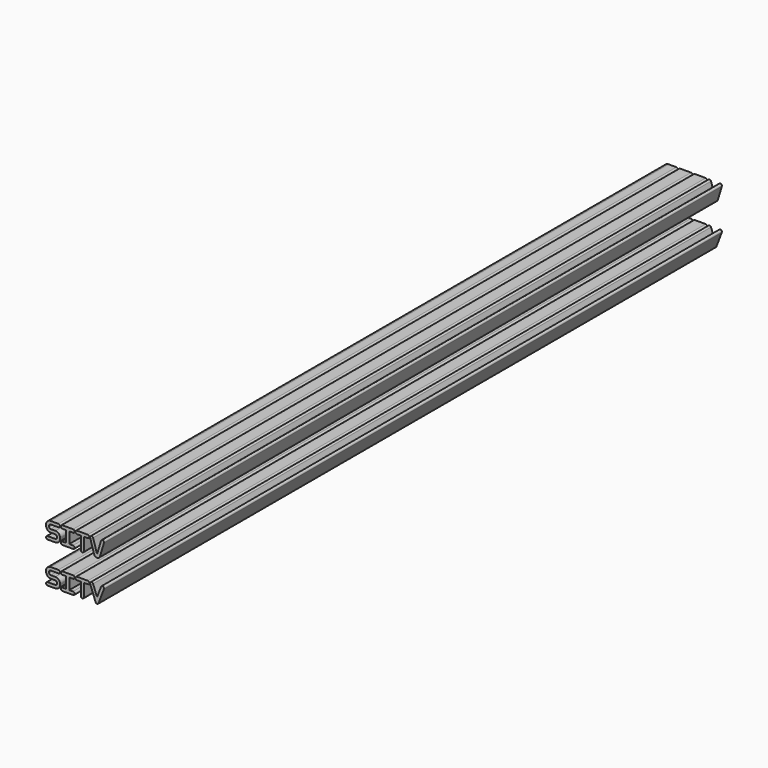
from build123d import *

# Parameters (mm, degrees)
F1_DEPTH = 2540


with BuildPart() as f1:
    # F0 (on Front) → F1 (new body)
    with BuildSketch(Plane.XZ):
        with BuildLine():
            ThreePointArc((-40.64, 10.16), (-45.72, 5.08), (-40.64, 0))
            Line((-40.64, 0), (-15.24, 0))
            ThreePointArc((-15.24, 0), (-4.463693, 4.463693), (0, 15.24))
            Line((0, 15.24), (0, 18.415))
            ThreePointArc((0, 18.415), (-4.463693, 29.191307), (-15.24, 33.655))
            Line((-15.24, 33.655), (-30.48, 33.655))
            ThreePointArc((-30.48, 33.655), (-34.072102, 35.142898), (-35.56, 38.735))
            Line((-35.56, 38.735), (-35.56, 41.91))
            ThreePointArc((-35.56, 41.91), (-34.072102, 45.502102), (-30.48, 46.99))
            Line((-30.48, 46.99), (-5.08, 46.99))
            ThreePointArc((-5.08, 46.99), (0, 52.07), (-5.08, 57.15))
            Line((-5.08, 57.15), (-30.48, 57.15))
            ThreePointArc((-30.48, 57.15), (-41.256307, 52.686307), (-45.72, 41.91))
            Line((-45.72, 41.91), (-45.72, 38.735))
            ThreePointArc((-45.72, 38.735), (-41.256307, 27.958693), (-30.48, 23.495))
            Line((-30.48, 23.495), (-15.24, 23.495))
            ThreePointArc((-15.24, 23.495), (-11.647898, 22.007102), (-10.16, 18.415))
            Line((-10.16, 18.415), (-10.16, 15.24))
            ThreePointArc((-10.16, 15.24), (-11.647898, 11.647898), (-15.24, 10.16))
            Line((-15.24, 10.16), (-40.64, 10.16))
        make_face()
        with BuildLine():
            ThreePointArc((7.62, 10.16), (2.54, 5.08), (7.62, 0))
            Line((7.62, 0), (43.18, 0))
            ThreePointArc((43.18, 0), (48.26, 5.08), (43.18, 10.16))
            Line((43.18, 10.16), (30.48, 10.16))
            Line((30.48, 10.16), (30.48, 46.99))
            Line((30.48, 46.99), (43.18, 46.99))
            ThreePointArc((43.18, 46.99), (48.26, 52.07), (43.18, 57.15))
            Line((43.18, 57.15), (7.62, 57.15))
            ThreePointArc((7.62, 57.15), (2.54, 52.07), (7.62, 46.99))
            Line((7.62, 46.99), (20.32, 46.99))
            Line((20.32, 46.99), (20.32, 10.16))
            Line((20.32, 10.16), (7.62, 10.16))
        make_face()
        with BuildLine():
            ThreePointArc((55.88, 57.15), (50.8, 52.07), (55.88, 46.99))
            Line((55.88, 46.99), (68.58, 46.99))
            Line((68.58, 46.99), (68.58, 5.08))
            ThreePointArc((68.58, 5.08), (73.66, 0), (78.74, 5.08))
            Line((78.74, 5.08), (78.74, 46.99))
            Line((78.74, 46.99), (91.44, 46.99))
            ThreePointArc((91.44, 46.99), (96.52, 52.07), (91.44, 57.15))
            Line((91.44, 57.15), (55.88, 57.15))
        make_face()
        with BuildLine():
            ThreePointArc((109.008735, 53.519766), (102.690234, 56.938735), (99.271265, 50.620234))
            Line((99.271265, 50.620234), (109.008735, 53.519766))
        make_face()
        with BuildLine():
            Line((109.008735, 53.519766), (99.271265, 50.620234))
            Line((99.271265, 50.620234), (112.182531, 7.260467))
            ThreePointArc((112.182531, 7.260467), (121.92, 0), (131.65747, 7.260467))
            Line((131.65747, 7.260467), (144.568735, 50.620234))
            ThreePointArc((144.568735, 50.620234), (143.772543, 55.106576), (139.7, 57.15))
            ThreePointArc((139.7, 57.15), (136.663424, 56.142543), (134.831265, 53.519766))
            Line((134.831265, 53.519766), (122.150792, 10.935065))
            Line((122.150792, 10.935065), (121.92, 10.16))
            Line((121.92, 10.16), (121.689208, 10.935065))
            Line((121.689208, 10.935065), (109.008735, 53.519766))
        make_face()
        with BuildLine():
            ThreePointArc((122.150792, 10.935065), (121.92, 10.8839), (121.689208, 10.935065))
            Line((121.689208, 10.935065), (121.92, 10.16))
            Line((121.92, 10.16), (122.150792, 10.935065))
        make_face()
        with BuildLine():
            ThreePointArc((108.891254, -79.482228), (102.342228, -76.528746), (99.388746, -83.077772))
            Line((99.388746, -83.077772), (117.168746, -130.067772))
            ThreePointArc((117.168746, -130.067772), (121.92, -133.35), (126.671254, -130.067772))
            ThreePointArc((126.671254, -130.067772), (127, -128.27), (126.671254, -126.472228))
            Line((126.671254, -126.472228), (121.92, -113.915342))
            Line((121.92, -113.915342), (108.891254, -79.482228))
        make_face()
        with BuildLine():
            ThreePointArc((126.671254, -126.472228), (127, -128.27), (126.671254, -130.067772))
            Line((126.671254, -130.067772), (144.451254, -83.077772))
            Line((144.451254, -83.077772), (134.948746, -79.482228))
            Line((134.948746, -79.482228), (121.92, -113.915342))
            Line((121.92, -113.915342), (126.671254, -126.472228))
        make_face()
        with BuildLine():
            Line((134.948746, -79.482228), (144.451254, -83.077772))
            ThreePointArc((144.451254, -83.077772), (141.497772, -76.528746), (134.948746, -79.482228))
        make_face()
        with BuildLine():
            ThreePointArc((-40.64, -123.19), (-45.72, -128.27), (-40.64, -133.35))
            Line((-40.64, -133.35), (-15.24, -133.35))
            ThreePointArc((-15.24, -133.35), (-4.463693, -128.886307), (0, -118.11))
            Line((0, -118.11), (0, -114.935))
            ThreePointArc((0, -114.935), (-4.463693, -104.158693), (-15.24, -99.695))
            Line((-15.24, -99.695), (-30.48, -99.695))
            ThreePointArc((-30.48, -99.695), (-34.072102, -98.207102), (-35.56, -94.615))
            Line((-35.56, -94.615), (-35.56, -91.44))
            ThreePointArc((-35.56, -91.44), (-34.072102, -87.847898), (-30.48, -86.36))
            Line((-30.48, -86.36), (-5.08, -86.36))
            ThreePointArc((-5.08, -86.36), (0, -81.28), (-5.08, -76.2))
            Line((-5.08, -76.2), (-30.48, -76.2))
            ThreePointArc((-30.48, -76.2), (-41.256307, -80.663693), (-45.72, -91.44))
            Line((-45.72, -91.44), (-45.72, -94.615))
            ThreePointArc((-45.72, -94.615), (-41.256307, -105.391307), (-30.48, -109.855))
            Line((-30.48, -109.855), (-15.24, -109.855))
            ThreePointArc((-15.24, -109.855), (-11.647898, -111.342898), (-10.16, -114.935))
            Line((-10.16, -114.935), (-10.16, -118.11))
            ThreePointArc((-10.16, -118.11), (-11.647898, -121.702102), (-15.24, -123.19))
            Line((-15.24, -123.19), (-40.64, -123.19))
        make_face()
        with BuildLine():
            ThreePointArc((7.62, -123.19), (2.54, -128.27), (7.62, -133.35))
            Line((7.62, -133.35), (43.18, -133.35))
            ThreePointArc((43.18, -133.35), (48.26, -128.27), (43.18, -123.19))
            Line((43.18, -123.19), (30.48, -123.19))
            Line((30.48, -123.19), (30.48, -86.36))
            Line((30.48, -86.36), (43.18, -86.36))
            ThreePointArc((43.18, -86.36), (48.26, -81.28), (43.18, -76.2))
            Line((43.18, -76.2), (7.62, -76.2))
            ThreePointArc((7.62, -76.2), (2.54, -81.28), (7.62, -86.36))
            Line((7.62, -86.36), (20.32, -86.36))
            Line((20.32, -86.36), (20.32, -123.19))
            Line((20.32, -123.19), (7.62, -123.19))
        make_face()
        with BuildLine():
            ThreePointArc((55.88, -76.2), (50.8, -81.28), (55.88, -86.36))
            Line((55.88, -86.36), (68.58, -86.36))
            Line((68.58, -86.36), (68.58, -128.27))
            ThreePointArc((68.58, -128.27), (73.66, -133.35), (78.74, -128.27))
            Line((78.74, -128.27), (78.74, -86.36))
            Line((78.74, -86.36), (91.44, -86.36))
            ThreePointArc((91.44, -86.36), (96.52, -81.28), (91.44, -76.2))
            Line((91.44, -76.2), (55.88, -76.2))
        make_face()
    extrude(amount=-F1_DEPTH)


solid = f1.part
